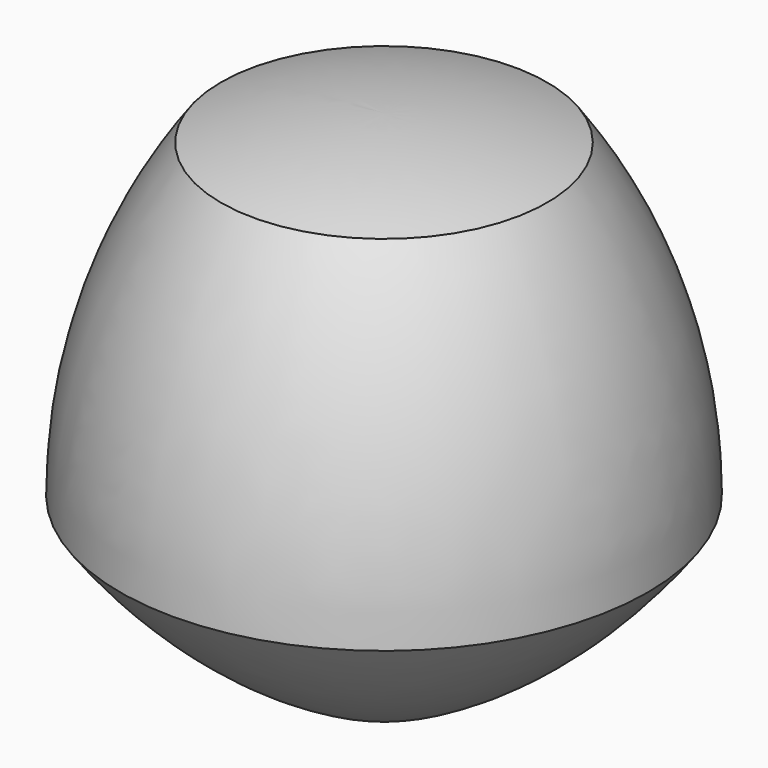
from build123d import *


with BuildPart() as f1:
    # F0 (on Front) → F1 (revolve)
    with BuildSketch(Plane.XZ):
        with BuildLine():
            ThreePointArc((-34.3601, 47.29262), (-50.153704, 16.295926), (-55.595809, -18.064173))
            ThreePointArc((-55.595809, -18.064173), (-30.996694, -42.663289), (0, -58.456893))
            Line((0, -58.456893), (0, 52.734725))
            ThreePointArc((0, 52.734725), (-17.394201, 51.365772), (-34.3601, 47.29262))
        make_face()
    revolve(axis=Axis((0, 0, -2.861084), (0, 0, -1)))


solid = f1.part
